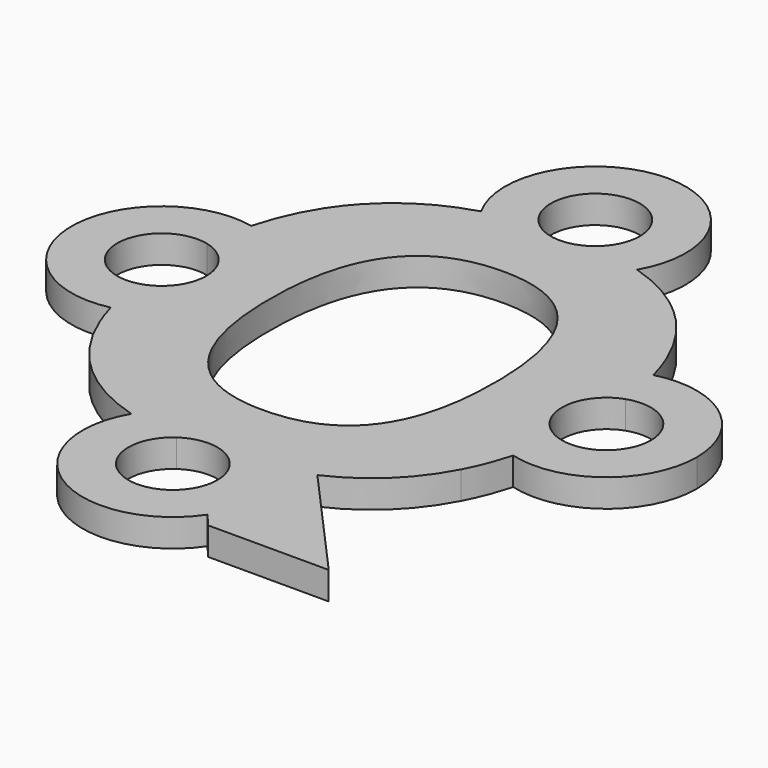
from build123d import *

# Parameters (mm, degrees)
F1_DEPTH = 1


with BuildPart() as f1:
    # F0 (on Top) → F1 (new body)
    with BuildSketch(Plane.XY):
        with BuildLine():
            ThreePointArc((2.8091594088, 7.8656428127), (-0.0182836438, 6.2500514299), (-2.8273702301, 7.8973529453))
            add(Edge.make_bspline(
                [(-5.720264746, 6.154370255), (-4.5660510818, 7.385326849), (-2.8273702301, 7.8973529453)],
                knots=[0, 0, 0, 0.5840421191, 0.5840421191, 0.5840421191], degree=2))
            add(Edge.make_bspline(
                [(-7.3201619849, 3.1781001043), (-6.8340951252, 4.9664820048), (-5.720264746, 6.154370255)],
                knots=[0.4363921732, 0.4363921732, 0.4363921732, 1, 1, 1], degree=2))
            ThreePointArc((-7.3201619849, 3.1781001043), (-5.4729489965, 2.0436519335), (-4.75, 0))
            ThreePointArc((-4.75, 0), (-5.4655789709, -2.0345048654), (-7.297206183, -3.1731027167))
            add(Edge.make_bspline(
                [(-5.7255207319, -6.0850691065), (-6.8093646897, -4.9106639648), (-7.297206183, -3.1731027167)],
                knots=[0, 0, 0, 0.5498969295, 0.5498969295, 0.5498969295], degree=2))
            add(Edge.make_bspline(
                [(-2.806628726, -7.8613007614), (-4.5631316501, -7.3445822538), (-5.7255207319, -6.0850691065)],
                knots=[0.4102525715, 0.4102525715, 0.4102525715, 1, 1, 1], degree=2))
            ThreePointArc((-2.806628726, -7.8613007614), (0.8488099436, -6.3628003443), (3.25, -9.5))
            ThreePointArc((3.25, -9.5), (3.1093170057, -10.4458582125), (2.6994475334, -11.309829554))
            Line((2.6994475334, -11.309829554), (3.1097917072, -11.8123418338))
            Line((3.1097917072, -11.8123418338), (7.4582441113, -11.8123418338))
            Line((7.4582441113, -11.8123418338), (3.6038543897, -7.5059373175))
            add(Edge.make_bspline(
                [(6.5437025501, -4.709752774), (5.5415612225, -6.6194276815), (3.6038543897, -7.5059373175)],
                knots=[0, 0, 0, 1, 1, 1], degree=2))
            add(Edge.make_bspline(
                [(7.1570492352, -3.1387790633), (6.9216426448, -3.989552244), (6.5437025501, -4.709752774)],
                knots=[0.6228674697, 0.6228674697, 0.6228674697, 1, 1, 1], degree=2))
            ThreePointArc((7.1570492352, -3.1387790633), (4.7500139025, 0.0095061147), (7.1754251763, 3.1436565271))
            add(Edge.make_bspline(
                [(5.5906170917, 6.1368503017), (6.6948135803, 4.9366797455), (7.1754251763, 3.1436565271)],
                knots=[0, 0, 0, 0.5647408764, 0.5647408764, 0.5647408764], degree=2))
            add(Edge.make_bspline(
                [(2.8091594088, 7.8656428127), (4.4798033615, 7.344213254), (5.5906170917, 6.1368503017)],
                knots=[0.4318747379, 0.4318747379, 0.4318747379, 1, 1, 1], degree=2))
        make_face()
        with BuildLine():
            add(Edge.make_bspline(
                [(-4.1364609694, 0.027642593), (-4.1364609694, -2.6564142496), (-3.1185516839, -4.0142106288)],
                knots=[0, 0, 0, 1, 1, 1], degree=2))
            add(Edge.make_bspline(
                [(-3.1080397119, 4.07124781), (-4.1364609694, 2.7081954448), (-4.1364609694, 0.027642593)],
                knots=[0, 0, 0, 1, 1, 1], degree=2))
            add(Edge.make_bspline(
                [(-0.0543118552, 5.4343001752), (-2.0796184544, 5.4343001752), (-3.1080397119, 4.07124781)],
                knots=[0, 0, 0, 1, 1, 1], degree=2))
            add(Edge.make_bspline(
                [(3.9857893712, 0.027642593), (3.9857893712, 5.4343001752), (-0.0543118552, 5.4343001752)],
                knots=[0, 0, 0, 1, 1, 1], degree=2))
            add(Edge.make_bspline(
                [(-0.0753357991, -5.372007008), (3.9857893712, -5.372007008), (3.9857893712, 0.027642593)],
                knots=[0, 0, 0, 1, 1, 1], degree=2))
            add(Edge.make_bspline(
                [(-3.1185516839, -4.0142106288), (-2.1006423983, -5.372007008), (-0.0753357991, -5.372007008)],
                knots=[0, 0, 0, 1, 1, 1], degree=2))
        make_face(mode=Mode.SUBTRACT)
        with BuildLine():
            ThreePointArc((-4.75, 0), (-5.4729489965, 2.0436519335), (-7.3201619849, 3.1781001043))
            add(Edge.make_bspline(
                [(-7.6194377018, 1.5540824744), (-7.5261966884, 2.4200382715), (-7.3201619849, 3.1781001043)],
                knots=[0.1974892956, 0.1974892956, 0.1974892956, 0.4363921732, 0.4363921732, 0.4363921732], degree=2))
            ThreePointArc((-7.6194377018, 1.5540824744), (-6.7412506848, 0.9876994287), (-6.4, 0))
            ThreePointArc((-6.4, 0), (-6.7380115086, -0.9835573433), (-7.6092313094, -1.5515475598))
            add(Edge.make_bspline(
                [(-7.297206183, -3.1731027167), (-7.5098248794, -2.4158116446), (-7.6092313094, -1.5515475598)],
                knots=[0.5498969295, 0.5498969295, 0.5498969295, 0.7895615949, 0.7895615949, 0.7895615949], degree=2))
            ThreePointArc((-7.297206183, -3.1731027167), (-5.4655789709, -2.0345048654), (-4.75, 0))
        make_face()
        with BuildLine():
            add(Edge.make_bspline(
                [(-7.6194377018, 1.5540824744), (-7.5261966884, 2.4200382715), (-7.3201619849, 3.1781001043)],
                knots=[0.1974892956, 0.1974892956, 0.1974892956, 0.4363921732, 0.4363921732, 0.4363921732], degree=2))
            ThreePointArc((-7.3201619849, 3.1781001043), (-11.2499787714, -0.0117467307), (-7.297206183, -3.1731027167))
            add(Edge.make_bspline(
                [(-7.297206183, -3.1731027167), (-7.5098248794, -2.4158116446), (-7.6092313094, -1.5515475598)],
                knots=[0.5498969295, 0.5498969295, 0.5498969295, 0.7895615949, 0.7895615949, 0.7895615949], degree=2))
            ThreePointArc((-7.6092313094, -1.5515475598), (-9.5999913596, -0.0052582373), (-7.6194377018, 1.5540824744))
        make_face()
        with BuildLine():
            ThreePointArc((-0.9699879076, 8.2275521782), (-0.7099363872, 10.933872493), (1.6, 9.5))
            ThreePointArc((1.6, 9.5), (1.4307645651, 8.7838207212), (0.9588590508, 8.2191450821))
            add(Edge.make_bspline(
                [(0.9588590508, 8.2191450821), (1.9568612557, 8.1316560761), (2.8091594088, 7.8656428127)],
                knots=[0.1420391264, 0.1420391264, 0.1420391264, 0.4318747379, 0.4318747379, 0.4318747379], degree=2))
            ThreePointArc((2.8091594088, 7.8656428127), (3.1378550061, 8.6536159497), (3.25, 9.5))
            ThreePointArc((3.25, 9.5), (-0.828717911, 12.6425668846), (-2.8273702301, 7.8973529453))
            add(Edge.make_bspline(
                [(-2.8273702301, 7.8973529453), (-1.9697764553, 8.1499067089), (-0.9699879076, 8.2275521782)],
                knots=[0.5840421191, 0.5840421191, 0.5840421191, 0.8721173486, 0.8721173486, 0.8721173486], degree=2))
        make_face()
        with BuildLine():
            ThreePointArc((0.9588590508, 8.2191450821), (-0.0069737135, 7.9000151978), (-0.9699879076, 8.2275521782))
            add(Edge.make_bspline(
                [(-2.8273702301, 7.8973529453), (-1.9697764553, 8.1499067089), (-0.9699879076, 8.2275521782)],
                knots=[0.5840421191, 0.5840421191, 0.5840421191, 0.8721173486, 0.8721173486, 0.8721173486], degree=2))
            ThreePointArc((-2.8273702301, 7.8973529453), (-0.0182836438, 6.2500514299), (2.8091594088, 7.8656428127))
            add(Edge.make_bspline(
                [(0.9588590508, 8.2191450821), (1.9568612557, 8.1316560761), (2.8091594088, 7.8656428127)],
                knots=[0.1420391264, 0.1420391264, 0.1420391264, 0.4318747379, 0.4318747379, 0.4318747379], degree=2))
        make_face()
        with BuildLine():
            ThreePointArc((11.25, 0), (9.9852747698, 2.5731661603), (7.1754251763, 3.1436565271))
            add(Edge.make_bspline(
                [(7.1754251763, 3.1436565271), (7.3799542085, 2.38061771), (7.4715512401, 1.5102125374)],
                knots=[0.5647408764, 0.5647408764, 0.5647408764, 0.8050719584, 0.8050719584, 0.8050719584], degree=2))
            ThreePointArc((7.4715512401, 1.5102125374), (8.9258730972, 1.3048980833), (9.6, 0))
            ThreePointArc((9.6, 0), (8.9228852132, -1.3070129622), (7.4646463959, -1.5077786703))
            add(Edge.make_bspline(
                [(7.4646463959, -1.5077786703), (7.3681667944, -2.3757878614), (7.1570492352, -3.1387790633)],
                knots=[0.2846471201, 0.2846471201, 0.2846471201, 0.6228674697, 0.6228674697, 0.6228674697], degree=2))
            ThreePointArc((7.1570492352, -3.1387790633), (9.9777398735, -2.5789619991), (11.25, 0))
        make_face()
        with BuildLine():
            add(Edge.make_bspline(
                [(7.1754251763, 3.1436565271), (7.3799542085, 2.38061771), (7.4715512401, 1.5102125374)],
                knots=[0.5647408764, 0.5647408764, 0.5647408764, 0.8050719584, 0.8050719584, 0.8050719584], degree=2))
            ThreePointArc((7.1754251763, 3.1436565271), (4.7500139025, 0.0095061147), (7.1570492352, -3.1387790633))
            add(Edge.make_bspline(
                [(7.4646463959, -1.5077786703), (7.3681667944, -2.3757878614), (7.1570492352, -3.1387790633)],
                knots=[0.2846471201, 0.2846471201, 0.2846471201, 0.6228674697, 0.6228674697, 0.6228674697], degree=2))
            ThreePointArc((7.4646463959, -1.5077786703), (6.4000041876, 0.003660621), (7.4715512401, 1.5102125374))
        make_face()
        with BuildLine():
            ThreePointArc((3.25, -9.5), (0.8488099436, -6.3628003443), (-2.806628726, -7.8613007614))
            add(Edge.make_bspline(
                [(-0.9200619255, -8.1909980698), (-1.9362792045, -8.1173354651), (-2.806628726, -7.8613007614)],
                knots=[0.1180319409, 0.1180319409, 0.1180319409, 0.4102525715, 0.4102525715, 0.4102525715], degree=2))
            ThreePointArc((-0.9200619255, -8.1909980698), (0.737529972, -8.0801234066), (1.6, -9.5))
            ThreePointArc((1.6, -9.5), (1.587187401, -9.7020795735), (1.5489548075, -9.9009226913))
            Line((1.5489548075, -9.9009226913), (2.6994475334, -11.309829554))
            ThreePointArc((2.6994475334, -11.309829554), (3.1093170057, -10.4458582125), (3.25, -9.5))
        make_face()
        with BuildLine():
            add(Edge.make_bspline(
                [(-0.9200619255, -8.1909980698), (-1.9362792045, -8.1173354651), (-2.806628726, -7.8613007614)],
                knots=[0.1180319409, 0.1180319409, 0.1180319409, 0.4102525715, 0.4102525715, 0.4102525715], degree=2))
            ThreePointArc((-2.806628726, -7.8613007614), (-1.7250970003, -12.2543675026), (2.6994475334, -11.309829554))
            Line((2.6994475334, -11.309829554), (1.5489548075, -9.9009226913))
            ThreePointArc((1.5489548075, -9.9009226913), (-0.9109539599, -10.8153565612), (-0.9200619255, -8.1909980698))
        make_face()
    extrude(amount=F1_DEPTH)


solid = f1.part
